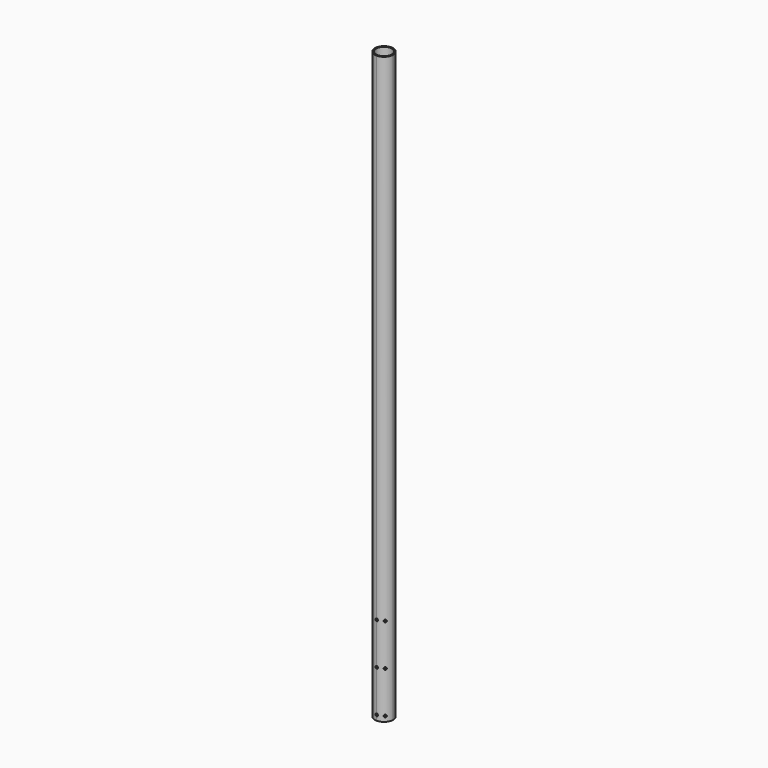
from build123d import *

# Parameters (mm, degrees)
F1_DEPTH  = 1120
F2_D      = 30
F4_R      = 2.4
F5_DEPTH  = 25
F7_R      = 2.4
F8_DEPTH  = 35
F11_DEPTH = 18


with BuildPart() as f1:
    # F0 (on Top) → F1 (new body)
    with BuildSketch(Plane.XY):
        with BuildLine():
            ThreePointArc((0, -17.5), (12.3743686708, -12.3743686708), (17.5, 0))
            ThreePointArc((17.5, 0), (12.3743686708, 12.3743686708), (0, 17.5))
            Line((0, 17.5), (0, -17.5))
        make_face()
        with BuildLine():
            Line((0, -17.5), (0, 17.5))
            ThreePointArc((0, 17.5), (-17.5, 0), (0, -17.5))
        make_face()
    extrude(amount=F1_DEPTH)

    # F2 (through all)
    with Locations(Plane(origin=(0, 0, 0), x_dir=(1, 0, 0), z_dir=(0, 0, -1))):
        with Locations((0, 0)):
            Hole(F2_D / 2)

    # F4 (on Front) → F5 (cut, symmetric)
    with BuildSketch(Plane.XZ):
        with Locations((0, 10)):
            Circle(F4_R)
        with Locations((0, 90)):
            Circle(F4_R)
        with Locations((0, 170)):
            Circle(F4_R)
    extrude(amount=F5_DEPTH, both=True, mode=Mode.SUBTRACT)

    # F7 (on face) → F8 (cut)
    with BuildSketch(Plane(origin=(0, 0, 0), x_dir=(0.7071067812, -0.7071067812, 0), z_dir=(-0.7071067812, -0.7071067812, 0))):
        with BuildLine():
            ThreePointArc((-2.4, 10), (0, 7.6), (2.4, 10))
            Line((2.4, 10), (-2.4, 10))
        make_face()
        with BuildLine():
            Line((-2.4, 10), (2.4, 10))
            ThreePointArc((2.4, 10), (0, 12.4), (-2.4, 10))
        make_face()
        with Locations((0, 170)):
            Circle(F7_R)
        with Locations((0, 90)):
            Circle(F7_R)
    extrude(amount=-F8_DEPTH, mode=Mode.SUBTRACT)

    # F10 (on face) → F11 (cut)
    with BuildSketch(Plane(origin=(0, 0, 0), x_dir=(0.7071067812, 0.7071067812, 0), z_dir=(0.7071067812, -0.7071067812, 0))):
        with BuildLine():
            ThreePointArc((-2.4, 10), (0, 7.6), (2.4, 10))
            Line((2.4, 10), (-2.4, 10))
        make_face()
        with BuildLine():
            Line((-2.4, 10), (2.4, 10))
            ThreePointArc((2.4, 10), (0, 12.4), (-2.4, 10))
        make_face()
        with BuildLine():
            ThreePointArc((-0.5128725091, 92.3445600418), (-1.8696114599, 91.5048431776), (-2.4, 90))
            Line((-2.4, 90), (0, 90))
            Line((0, 90), (-0.5128725091, 92.3445600418))
        make_face()
        with BuildLine():
            Line((0, 90), (-2.4, 90))
            ThreePointArc((-2.4, 90), (-1.5048431776, 88.1303885401), (0.5128725091, 87.6554399582))
            Line((0.5128725091, 87.6554399582), (0, 90))
        make_face()
        with BuildLine():
            Line((-0.5128725091, 92.3445600418), (0, 90))
            Line((0, 90), (2.4, 90))
            ThreePointArc((2.4, 90), (1.5048431776, 91.8696114599), (-0.5128725091, 92.3445600418))
        make_face()
        with BuildLine():
            Line((2.4, 90), (0, 90))
            Line((0, 90), (0.5128725091, 87.6554399582))
            ThreePointArc((0.5128725091, 87.6554399582), (1.8696114599, 88.4951568224), (2.4, 90))
        make_face()
        with BuildLine():
            ThreePointArc((2.4, 170), (0, 172.4), (-2.4, 170))
            Line((-2.4, 170), (2.4, 170))
        make_face()
        with BuildLine():
            Line((2.4, 170), (-2.4, 170))
            ThreePointArc((-2.4, 170), (0, 167.6), (2.4, 170))
        make_face()
    extrude(amount=F11_DEPTH, mode=Mode.SUBTRACT)


solid = f1.part
